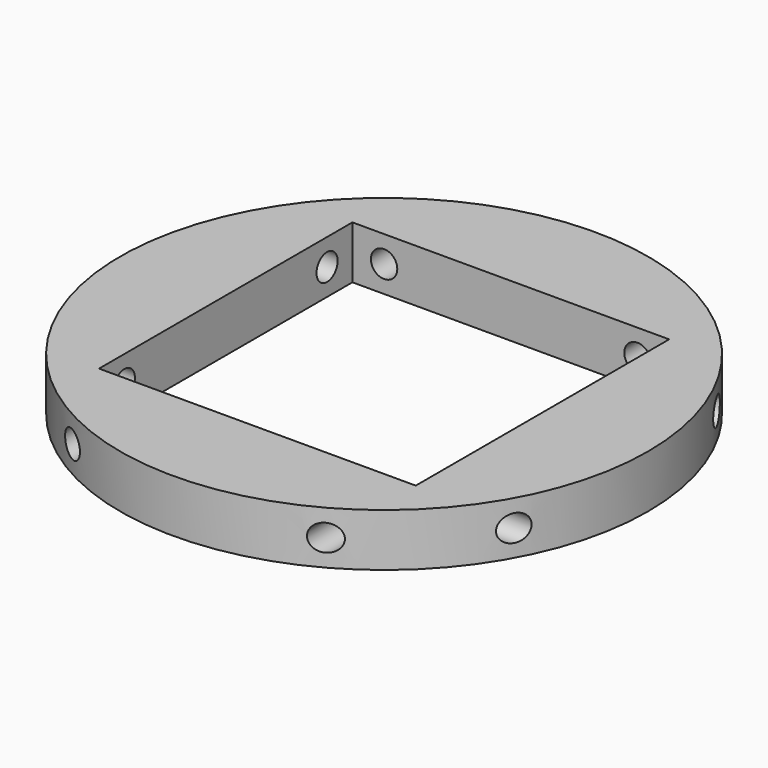
from build123d import *

# Parameters (mm, degrees)
F1_R     = 50
F1_W     = 60
F1_H     = 60
F2_DEPTH = 10
F3_R     = 2.5
F4_DEPTH = 145
F6_COUNT = 2
F6_ANGLE = 90


with BuildPart() as f2:
    # F1 (on Top) → F2 (new body)
    with BuildSketch(Plane.XY):
        Circle(F1_R)
        Rectangle(F1_W, F1_H, mode=Mode.SUBTRACT)
    extrude(amount=F2_DEPTH)


with BuildPart() as f4:
    # F3 (on face) → F4 (new body, symmetric)
    with BuildSketch(Plane.XZ.offset(-30)):
        with Locations((-24, 5)):
            Circle(F3_R)
    extrude(amount=F4_DEPTH, both=True)


with BuildPart() as f4b:
    # F3 (on face) → F4, piece 2 (new body, symmetric)
    with BuildSketch(Plane.XZ.offset(-30)):
        with Locations((24, 5)):
            Circle(F3_R)
    extrude(amount=F4_DEPTH, both=True)


with BuildPart() as f6_1:
    # F6: instance of F4
    add(f4.part.rotate(Axis((0, 0, 22.8316206485), (0, 0, 1)), 1 * F6_ANGLE / (F6_COUNT - 1)))


with BuildPart() as f6_2:
    # F6: instance of F4b
    add(f4b.part.rotate(Axis((0, 0, 22.8316206485), (0, 0, 1)), 1 * F6_ANGLE / (F6_COUNT - 1)))


with BuildPart() as f2_1:
    add(f2.part)

    # F7: cut F4, F6_2, F4b, F6_1
    add(f4.part, mode=Mode.SUBTRACT)
    add(f6_2.part, mode=Mode.SUBTRACT)
    add(f4b.part, mode=Mode.SUBTRACT)
    add(f6_1.part, mode=Mode.SUBTRACT)


solid = f2_1.part
